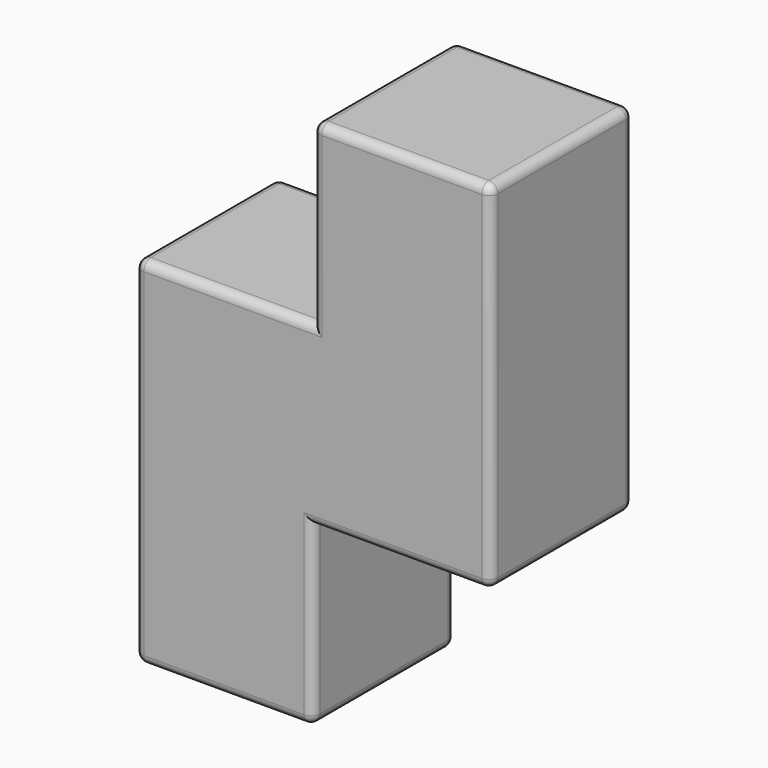
from build123d import *

# Parameters (mm, degrees)
F0_W     = 10
F0_H     = 10
F1_DEPTH = 10
F2_R     = 0.5


with BuildPart() as f1:
    # F0 (on Front) → F1 (new body)
    with BuildSketch(Plane.XZ):
        Polygon((-10, 5), (-10, -5), (0, -5), (10, -5), (10, 5), (0, 5), align=None)
        with Locations((-5, -10)):
            Rectangle(F0_W, F0_H)
        with Locations((5, 10)):
            Rectangle(F0_W, F0_H)
    extrude(amount=F1_DEPTH)

    # F2
    f2_edges = [f1.edges().sort_by_distance(p)[0] for p in [
        (-10, 0, -5),
        (-5, 0, -15),
        (0, 0, -10),
        (5, 0, -5),
        (10, 0, 5),
        (5, 0, 15),
        (0, 0, 10),
        (-5, 0, 5),
        (-10, -10, -5),
        (-5, -10, -15),
        (0, -10, -10),
        (5, -10, -5),
        (10, -10, 5),
        (5, -10, 15),
        (0, -10, 10),
        (-5, -10, 5),
        (-10, -5, -15),
        (0, -5, -15),
        (10, -5, -5),
        (10, -5, 15),
        (0, -5, 15),
        (-10, -5, 5),
    ]]
    fillet(f2_edges, radius=F2_R)


solid = f1.part
